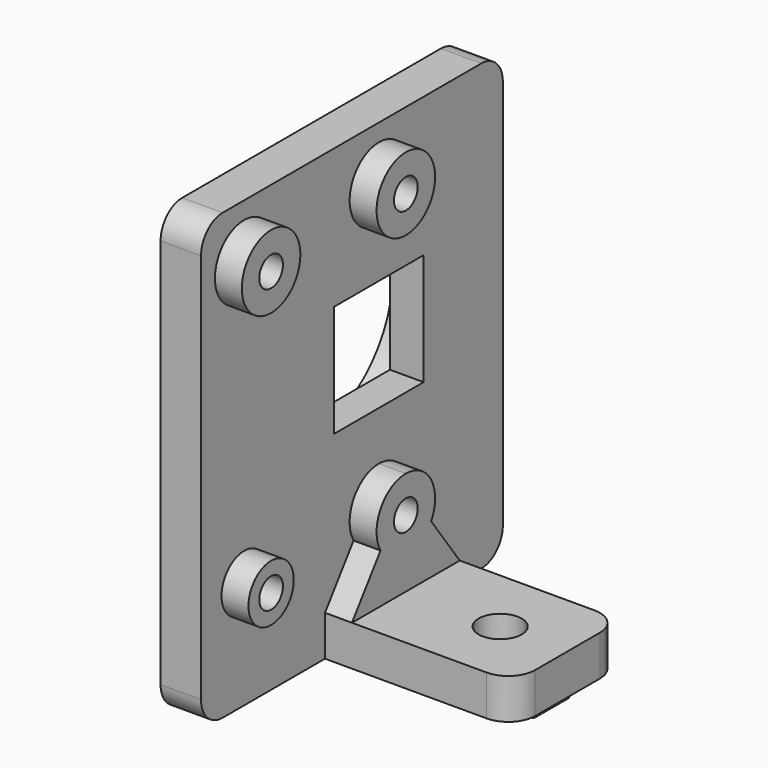
from build123d import *

# Parameters (mm, degrees)
SKETCH002_W     = 10
SKETCH002_H     = 3
PAD004_DEPTH    = 12
SKETCH006_R     = 1.6
POCKET_DEPTH    = 5
SKETCH004_W     = 3
SKETCH004_H     = 9
SKETCH004_H_2   = 2
PAD002_DEPTH    = 1.2
SKETCH005_R     = 7.55
PAD001_DEPTH    = 2
SKETCH_W        = 28
SKETCH_H        = 33
SKETCH_R        = 1.1
SKETCH_W_2      = 8.3
SKETCH_H_2      = 8.3
PAD_DEPTH       = 3
SKETCH001_R     = 2.1
SKETCH001_R_2   = 1.1
SKETCH001_R_3   = 2.71418
PAD003_DEPTH    = 2
FILLET_R        = 2
FILLET001_R     = 2
FILLET002_R     = 0.5
SKETCH007_R     = 7.5
POCKET001_DEPTH = 0.5


with BuildPart() as pocket:
    # Sketch002 → Pad004 (new body)
    with BuildSketch(Plane.YZ.offset(5)):
        with Locations((16.5, 1.5)):
            Rectangle(SKETCH002_W, SKETCH002_H)
    extrude(amount=PAD004_DEPTH)

    # Sketch006 → Pocket (cut)
    with BuildSketch(Plane(origin=(5, 0, 3), x_dir=(0, -1, 0), z_dir=(0, 0, 1))):
        with Locations((-16.5, 7)):
            Circle(SKETCH006_R)
    extrude(amount=-POCKET_DEPTH, mode=Mode.SUBTRACT)


with BuildPart() as pad002:
    # Sketch004 → Pad002 (new body)
    with BuildSketch(Plane.YX):
        with Locations((16.5, 4.5)):
            Rectangle(SKETCH004_W, SKETCH004_H)
        with Locations((16.5, 15)):
            Rectangle(SKETCH004_W, SKETCH004_H_2)
    extrude(amount=PAD002_DEPTH)


with BuildPart() as pad001:
    # Sketch005 → Pad001 (new body)
    with BuildSketch(Plane(origin=(0, 0, 0), x_dir=(0, 1, 0), z_dir=(-1, 0, 0))):
        with BuildLine():
            ThreePointArc((12.4754, -9.95), (7.050137, -18.5), (12.4754, -27.05))
            Line((12.4754, -27.05), (20.5246, -27.05))
            ThreePointArc((20.5246, -27.05), (25.949863, -18.5), (20.5246, -9.95))
            Line((12.4754, -9.95), (20.5246, -9.95))
        make_face()
        with Locations((16.5, -18.5)):
            Circle(SKETCH005_R, mode=Mode.SUBTRACT)
    extrude(amount=PAD001_DEPTH)


with BuildPart() as pad:
    # Sketch → Pad (new body)
    with BuildSketch(Plane.YZ):
        with Locations((14, 16.5)):
            Rectangle(SKETCH_W, SKETCH_H)
        with Locations((16.5, 29)):
            Circle(SKETCH_R, mode=Mode.SUBTRACT)
        with Locations((4, 29)):
            Circle(SKETCH_R, mode=Mode.SUBTRACT)
        with Locations((4, 8)):
            Circle(SKETCH_R, mode=Mode.SUBTRACT)
        with Locations((16.5, 8)):
            Circle(SKETCH_R, mode=Mode.SUBTRACT)
        with Locations((16.5, 18.5)):
            Rectangle(SKETCH_W_2, SKETCH_H_2, mode=Mode.SUBTRACT)
    extrude(amount=PAD_DEPTH)


with BuildPart() as pocket001:
    # Sketch001 → Pad003 (new body)
    with BuildSketch(Plane.YZ.offset(3)):
        with Locations((4, 8)):
            Circle(SKETCH001_R)
        with Locations((4, 8)):
            Circle(SKETCH001_R_2, mode=Mode.SUBTRACT)
        with Locations((4, 29)):
            Circle(SKETCH001_R_3)
        with Locations((4, 29)):
            Circle(SKETCH001_R_2, mode=Mode.SUBTRACT)
        with Locations((16.5, 29)):
            Circle(SKETCH001_R_3)
        with Locations((16.5, 29)):
            Circle(SKETCH001_R_2, mode=Mode.SUBTRACT)
        with BuildLine():
            ThreePointArc((16.5, 10.71418), (14.148967, 9.356252), (14.15042, 6.641234))
            Line((14.15042, 6.641234), (11.5, 3))
            Line((11.5, 0), (11.5, 3))
            Line((21.5, 0), (11.5, 0))
            Line((21.5, 3), (21.5, 0))
            Line((18.84958, 6.641234), (21.5, 3))
            ThreePointArc((18.84958, 6.641234), (18.851033, 9.356252), (16.5, 10.71418))
        make_face()
        with Locations((16.5, 8)):
            Circle(SKETCH001_R_2, mode=Mode.SUBTRACT)
    extrude(amount=PAD003_DEPTH)

    # Fusion: union Pocket, Pad002, Pad001, Pad
    add(pocket.part)
    add(pad002.part)
    add(pad001.part)
    add(pad.part)

    # Fillet
    fillet_edges = [pocket001.edges().sort_by_distance(p)[0] for p in [
        (1.5, 28, 33),
        (1.5, 0, 33),
        (1.5, 0, 0),
        (1.5, 28, 0),
    ]]
    fillet(fillet_edges, radius=FILLET_R)

    # Fillet001
    fillet001_edges = [pocket001.edges().sort_by_distance(p)[0] for p in [
        (17, 11.5, 1.5),
        (17, 21.5, 1.5),
    ]]
    fillet(fillet001_edges, radius=FILLET001_R)

    # Fillet002
    fillet002_edges = [pocket001.edges().sort_by_distance(p)[0] for p in [
        (9, 16.5, -1.2),
        (14, 16.5, -1.2),
        (16, 16.5, -1.2),
        (0, 16.5, -1.2),
    ]]
    fillet(fillet002_edges, radius=FILLET002_R)

    # Sketch007 → Pocket001 (cut)
    with BuildSketch(Plane(origin=(0, 0, 0), x_dir=(0, -1, 0), z_dir=(-1, 0, 0))):
        with Locations((-16.5246, 18.45)):
            Circle(SKETCH007_R)
    extrude(amount=-POCKET001_DEPTH, mode=Mode.SUBTRACT)


solid = pocket001.part
